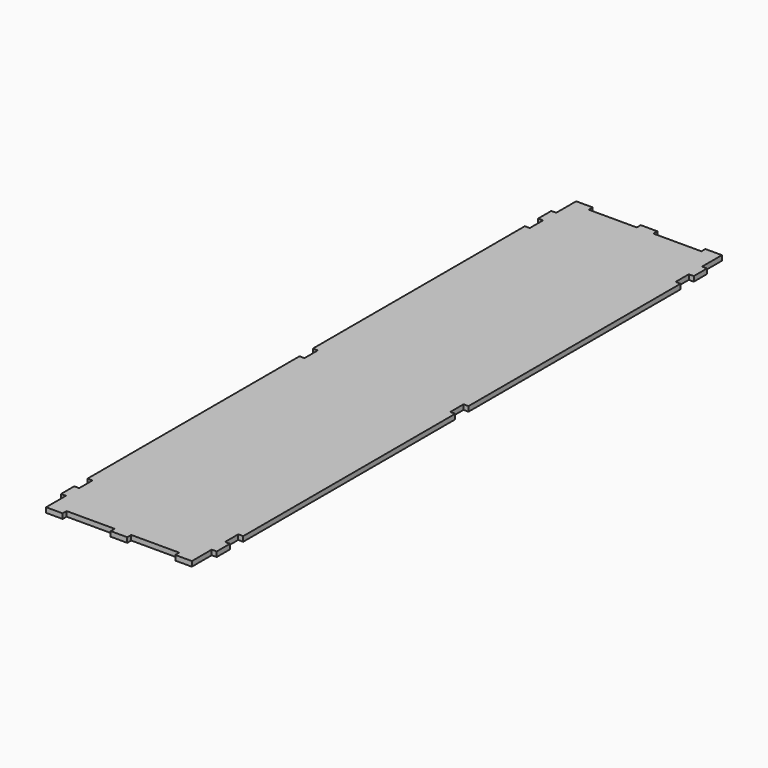
from build123d import *

# Parameters (mm, degrees)
PAD006_DEPTH           = 3
SKETCH012_W            = 3
SKETCH012_H            = 10
POCKET005_DEPTH        = 3
LINEARPATTERN004_COUNT = 3
LINEARPATTERN004_PITCH = 170


with BuildPart() as part:
    # Sketch010 → Pad006 (new body)
    with BuildSketch(Plane.XY):
        Polygon((0, -3), (10, -3), (10, 0), (39, 0), (39, -3), (49, -3), (49, 0), (78, 0), (78, -3), (88, -3), (88, 12), (91, 12), (91, 382), (88, 382), (88, 397), (78, 397), (78, 394), (49, 394), (49, 397), (39, 397), (39, 394), (10, 394), (10, 397), (0, 397), (0, 382), (-3, 382), (-3, 12), (0, 12), align=None)
    extrude(amount=PAD006_DEPTH)

    # Sketch012 → Pocket005 (cut)
    with BuildSketch(Plane.XY.offset(3)):
        with Locations((-1.5, 27)):
            Rectangle(SKETCH012_W, SKETCH012_H)
        with Locations((89.5, 27)):
            Rectangle(SKETCH012_W, SKETCH012_H)
    pocket005 = extrude(amount=-POCKET005_DEPTH, mode=Mode.SUBTRACT)

    # LinearPattern004: Pocket005 ×3
    with Locations(*[(0, i * LINEARPATTERN004_PITCH, 0) for i in range(1, LINEARPATTERN004_COUNT)]):
        add(pocket005, mode=Mode.SUBTRACT)


with BuildPart() as part_1:
    # Body006 placement: moved
    add(part.part.moved(Location((3, 0, 13))))


solid = part_1.part
